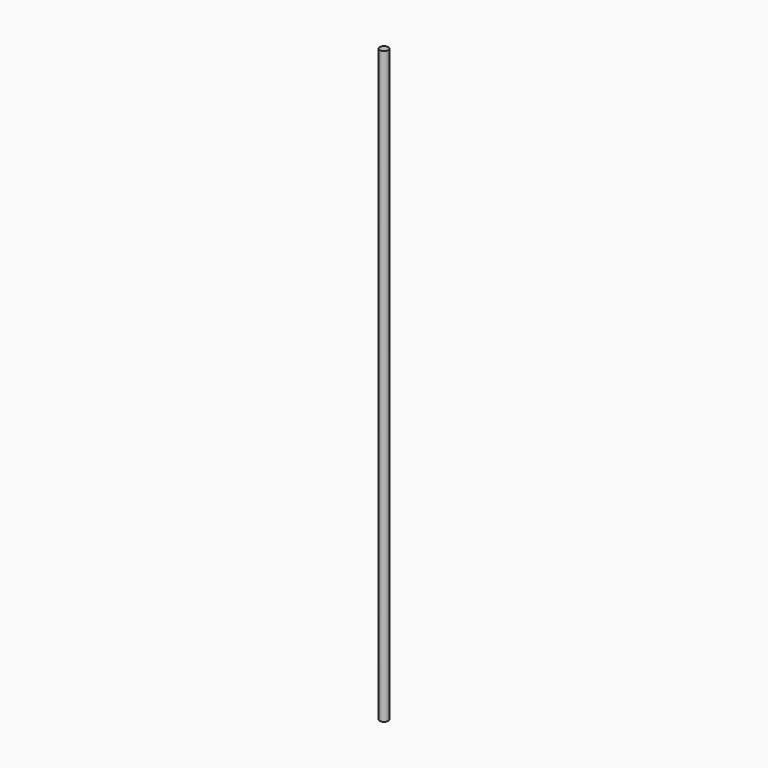
from build123d import *

# Parameters (mm, degrees)
SKETCH_R  = 1.5
PAD_DEPTH = 210


with BuildPart() as part:
    # Sketch → Pad (new body)
    with BuildSketch(Plane.XY):
        Circle(SKETCH_R)
    extrude(amount=PAD_DEPTH)


solid = part.part
